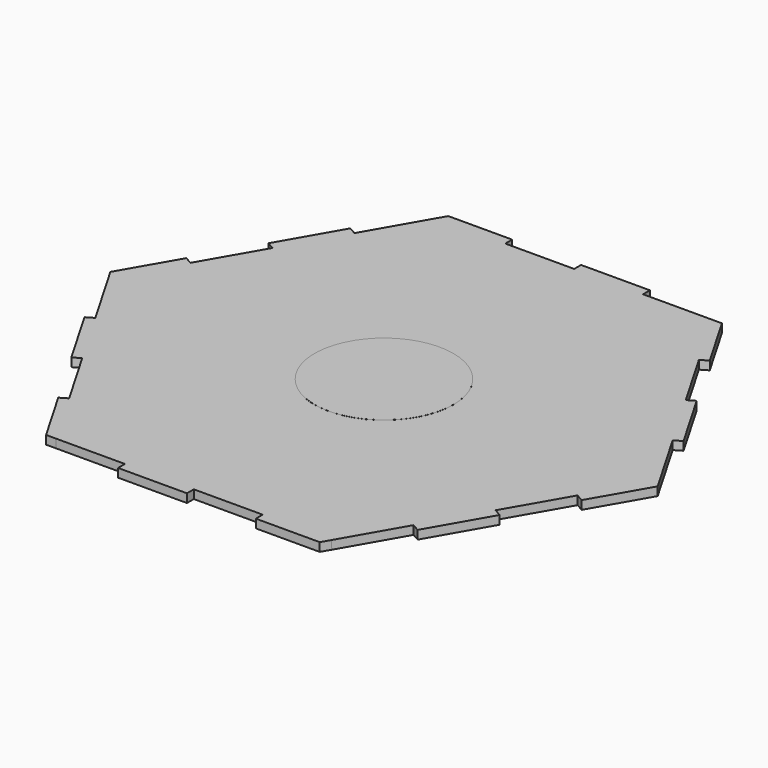
from build123d import *

# Parameters (mm, degrees)
F1_DEPTH = 3.175
F2_R     = 25.617872
F3_DEPTH = 0.0254


with BuildPart() as f1:
    # F0 (on Top) → F1 (new body)
    with BuildSketch(Plane.XY):
        Polygon((63.379409, 66.106962), (50.639269, 88.080784), (25.239311, 88.034409), (-0.160646, 87.988034), (-25.560604, 87.94166), (-50.960562, 87.895285), (-63.620379, 65.875089), (-76.280196, 43.854893), (-88.940013, 21.834698), (-101.599831, -0.185498), (-88.85969, -22.15932), (-76.11955, -44.133141), (-63.379409, -66.106962), (-50.639269, -88.080784), (-25.239311, -88.034409), (0.160646, -87.988034), (25.560604, -87.94166), (50.960562, -87.895285), (63.620379, -65.875089), (76.280196, -43.854893), (88.940013, -21.834698), (101.599831, 0.185498), (88.85969, 22.15932), (76.11955, 44.133141), align=None)
        Polygon((-76.280196, 43.854893), (-63.620379, 65.875089), (-66.372903, 67.457566), (-79.032721, 45.437371), align=None)
        Polygon((-101.599831, -0.185498), (-88.940013, 21.834698), (-91.692538, 23.417175), (-103.438712, 2.98615), align=None)
        Polygon((-50.960562, 87.895285), (-25.560604, 87.94166), (-25.566401, 91.116654), (-49.133274, 91.073627), align=None)
        Polygon((-0.160646, 87.988034), (25.239311, 88.034409), (25.233515, 91.209404), (-0.166443, 91.163029), align=None)
        Polygon((54.305437, 88.087477), (50.639269, 88.080784), (63.379409, 66.106962), (66.126137, 67.69948), align=None)
        Polygon((78.866278, 45.725658), (76.11955, 44.133141), (88.85969, 22.15932), (91.606418, 23.751837), align=None)
        Polygon((103.438712, -2.98615), (101.599831, 0.185498), (88.940013, -21.834698), (91.692538, -23.417175), align=None)
        Polygon((79.032721, -45.437371), (76.280196, -43.854893), (63.620379, -65.875089), (66.372903, -67.457566), align=None)
        Polygon((49.133274, -91.073627), (50.960562, -87.895285), (25.560604, -87.94166), (25.566401, -91.116654), align=None)
        Polygon((0.166443, -91.163029), (0.160646, -87.988034), (-25.239311, -88.034409), (-25.233515, -91.209404), align=None)
        Polygon((-50.639269, -88.080784), (-63.379409, -66.106962), (-66.126137, -67.69948), (-54.305437, -88.087477), align=None)
        Polygon((-76.11955, -44.133141), (-88.85969, -22.15932), (-91.606418, -23.751837), (-78.866278, -45.725658), align=None)
    extrude(amount=F1_DEPTH)

    # F2 (on face) → F3 (join)
    with BuildSketch(Plane.XY.offset(3.175)):
        Circle(F2_R)
    extrude(amount=F3_DEPTH)


solid = f1.part
